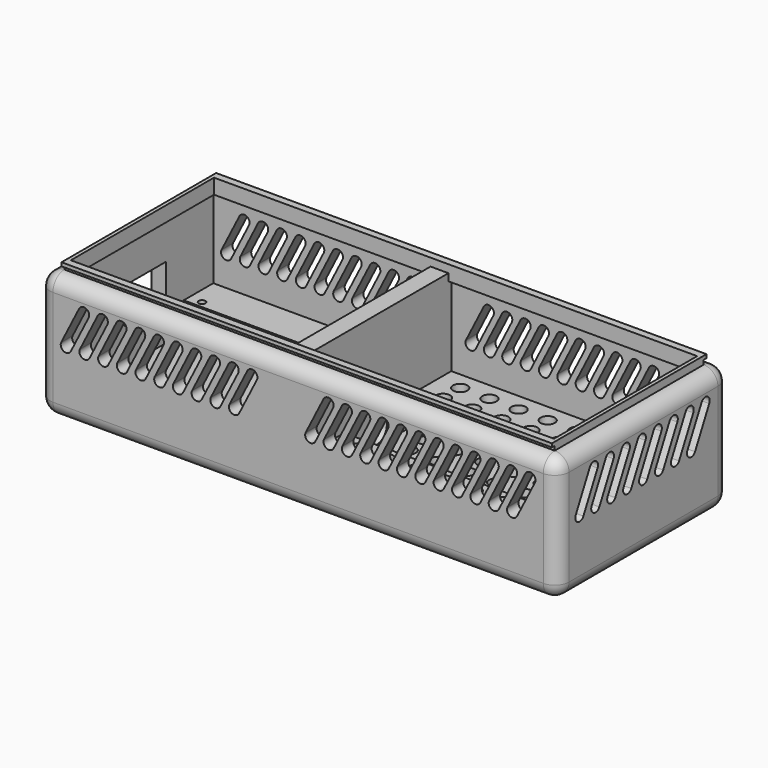
from build123d import *

# Parameters (mm, degrees)
SKETCH_W               = 145
SKETCH_H               = 60
PAD_DEPTH              = 35
FILLET_R               = 4
SKETCH001_W            = 137
SKETCH001_H            = 52
POCKET_DEPTH           = 24.5
SKETCH002_R            = 0.94
SKETCH002_W            = 61.5
SKETCH002_H            = 31.3
SKETCH002_W_2          = 70.5
SKETCH002_H_2          = 22.8
POCKET001_DEPTH        = 8
PAD001_DEPTH           = 24.5
SKETCH004_R            = 3.5
POCKET002_DEPTH        = 5
POCKET003_DEPTH        = 60.001
LINEARPATTERN_COUNT    = 10
LINEARPATTERN_PITCH    = 5.222222
POCKET004_DEPTH        = 60.001
LINEARPATTERN001_COUNT = 12
LINEARPATTERN001_PITCH = 5.127273
POCKET005_DEPTH        = 5
LINEARPATTERN002_COUNT = 8
LINEARPATTERN002_PITCH = 5.571429
SKETCH008_R            = 2
POCKET006_DEPTH        = 35.001
LINEARPATTERN003_COUNT = 8
LINEARPATTERN003_PITCH = 8.142857
SKETCH009_W            = 61.5
SKETCH009_H            = 2
SKETCH009_W_2          = 70.5
PAD002_DEPTH           = 1
SKETCH010_W            = 61.5
SKETCH010_H            = 2
SKETCH010_W_2          = 70.5
PAD003_DEPTH           = 1
SKETCH011_W            = 14.5
SKETCH011_H            = 10
POCKET007_DEPTH        = 5
SKETCH013_W            = 50
SKETCH013_H            = 2
PAD004_DEPTH           = 1
SKETCH014_W            = 50
SKETCH014_H            = 2
PAD005_DEPTH           = 1
SKETCH015_W            = 137
SKETCH015_H            = 52
SKETCH015_W_2          = 135
SKETCH015_H_2          = 50
PAD006_DEPTH           = 2.2
SKETCH016_W            = 137
SKETCH016_H            = 1
PAD007_DEPTH           = 1
SKETCH017_W            = 137
SKETCH017_H            = 1
PAD008_DEPTH           = 1


with BuildPart() as part:
    # Sketch → Pad (new body)
    with BuildSketch(Plane.XY):
        Rectangle(SKETCH_W, SKETCH_H)
    extrude(amount=PAD_DEPTH)

    # Fillet
    fillet_edges = [part.edges().sort_by_distance(p)[0] for p in [
        (-72.5, 30, 17.5),
        (72.5, 30, 17.5),
        (0, 30, 0),
        (0, 30, 35),
        (72.5, -30, 17.5),
        (72.5, 0, 0),
        (72.5, 0, 35),
        (-72.5, -30, 17.5),
        (0, -30, 0),
        (0, -30, 35),
        (-72.5, 0, 0),
        (-72.5, 0, 35),
    ]]
    fillet(fillet_edges, radius=FILLET_R)

    # Sketch001 (on Face11 of Fillet) → Pocket (cut)
    with BuildSketch(Plane.XY.offset(35)):
        Rectangle(SKETCH001_W, SKETCH001_H)
    extrude(amount=-POCKET_DEPTH, mode=Mode.SUBTRACT)

    # Sketch002 (on Face21 of Pocket) → Pocket001 (cut)
    with BuildSketch(Plane.XY.offset(10.5)):
        with Locations((-9.35, 17.5)):
            Circle(SKETCH002_R)
        with Locations((-64.85, 17.5)):
            Circle(SKETCH002_R)
        with Locations((-9.35, -17.5)):
            Circle(SKETCH002_R)
        with Locations((-64.85, -17.5)):
            Circle(SKETCH002_R)
        with Locations((0, 13.25)):
            Circle(SKETCH002_R)
        with Locations((66.2, 13.25)):
            Circle(SKETCH002_R)
        with Locations((66.2, -13.25)):
            Circle(SKETCH002_R)
        with Locations((0, -13.25)):
            Circle(SKETCH002_R)
        with Locations((-37.75, 0)):
            Rectangle(SKETCH002_W, SKETCH002_H)
        with Locations((33.25, 0)):
            Rectangle(SKETCH002_W_2, SKETCH002_H_2)
    extrude(amount=-POCKET001_DEPTH, mode=Mode.SUBTRACT)

    # Sketch003 (on Face21 of Pocket001) → Pad001 (join)
    with BuildSketch(Plane.XY.offset(10.5)):
        Polygon((-7, 15.65), (-7, 26), (-2, 26), (-2, -11.4), (-2, -26), (-7, -26), align=None)
    extrude(amount=PAD001_DEPTH)

    # Sketch004 (on Face46 of Pad001) → Pocket002 (cut)
    with BuildSketch(Plane.YZ.offset(-2)):
        with Locations((0, 6.5)):
            Circle(SKETCH004_R)
    extrude(amount=-POCKET002_DEPTH, mode=Mode.SUBTRACT)

    # Sketch005 (on Face34 of Pocket002) → Pocket003 (cut, through all)
    with BuildSketch(Plane.XZ.offset(30)):
        with BuildLine():
            Line((-61.210036, 29.336224), (-66.163776, 19.514796))
            ThreePointArc((-66.163776, 19.514796), (-65.5, 17.5), (-63.485204, 18.163776))
            Line((-58.531464, 27.985204), (-63.485204, 18.163776))
            ThreePointArc((-58.531464, 27.985204), (-59.19524, 30), (-61.210036, 29.336224))
        make_face()
    pocket003 = extrude(amount=-POCKET003_DEPTH, mode=Mode.SUBTRACT)

    # LinearPattern: Pocket003 ×10
    with Locations(*[(i * LINEARPATTERN_PITCH, 0, 0) for i in range(1, LINEARPATTERN_COUNT)]):
        add(pocket003, mode=Mode.SUBTRACT)

    # Sketch006 (on Face74 of LinearPattern) → Pocket004 (cut, through all)
    with BuildSketch(Plane.XZ.offset(30)):
        with BuildLine():
            Line((63.485204, 29.336224), (58.531464, 19.514796))
            ThreePointArc((58.531464, 19.514796), (59.19524, 17.5), (61.210036, 18.163776))
            Line((66.163776, 27.985204), (61.210036, 18.163776))
            ThreePointArc((66.163776, 27.985204), (65.5, 30), (63.485204, 29.336224))
        make_face()
    pocket004 = extrude(amount=-POCKET004_DEPTH, mode=Mode.SUBTRACT)

    # LinearPattern001: Pocket004 ×12
    with Locations(*[(-i * LINEARPATTERN001_PITCH, 0, 0) for i in range(1, LINEARPATTERN001_COUNT)]):
        add(pocket004, mode=Mode.SUBTRACT)

    # Sketch007 (on Face103 of LinearPattern001) → Pocket005 (cut)
    with BuildSketch(Plane.YZ.offset(72.5)):
        with BuildLine():
            Line((-18.710036, 29.336224), (-23.663776, 19.514796))
            ThreePointArc((-23.663776, 19.514796), (-23, 17.5), (-20.985204, 18.163776))
            Line((-16.031464, 27.985204), (-20.985204, 18.163776))
            ThreePointArc((-16.031464, 27.985204), (-16.69524, 30), (-18.710036, 29.336224))
        make_face()
    pocket005 = extrude(amount=-POCKET005_DEPTH, mode=Mode.SUBTRACT)

    # LinearPattern002: Pocket005 ×8
    with Locations(*[(0, i * LINEARPATTERN002_PITCH, 0) for i in range(1, LINEARPATTERN002_COUNT)]):
        add(pocket005, mode=Mode.SUBTRACT)

    # Sketch008 (on Face97 of LinearPattern002) → Pocket006 (cut, through all)
    with BuildSketch(Plane(origin=(0, 0, 0), x_dir=(1, 0, 0), z_dir=(0, 0, -1))):
        with Locations((61.5, 21)):
            Circle(SKETCH008_R)
        with Locations((61.5, 15)):
            Circle(SKETCH008_R)
        with Locations((61.5, 9)):
            Circle(SKETCH008_R)
        with Locations((61.5, 3)):
            Circle(SKETCH008_R)
        with Locations((61.5, -3)):
            Circle(SKETCH008_R)
        with Locations((61.5, -9)):
            Circle(SKETCH008_R)
        with Locations((61.5, -15)):
            Circle(SKETCH008_R)
        with Locations((61.5, -21)):
            Circle(SKETCH008_R)
    pocket006 = extrude(amount=-POCKET006_DEPTH, mode=Mode.SUBTRACT)

    # LinearPattern003: Pocket006 ×8
    with Locations(*[(-i * LINEARPATTERN003_PITCH, 0, 0) for i in range(1, LINEARPATTERN003_COUNT)]):
        add(pocket006, mode=Mode.SUBTRACT)

    # Sketch009 (on Face228 of LinearPattern003) → Pad002 (join)
    with BuildSketch(Plane(origin=(0, -26, 0), x_dir=(-1, 0, 0), z_dir=(0, 1, 0))):
        with Locations((37.75, 34)):
            Rectangle(SKETCH009_W, SKETCH009_H)
        with Locations((-33.25, 34)):
            Rectangle(SKETCH009_W_2, SKETCH009_H)
    extrude(amount=PAD002_DEPTH)

    # Sketch010 (on Face99 of Pad002) → Pad003 (join)
    with BuildSketch(Plane.XZ.offset(-26)):
        with Locations((-37.75, 34)):
            Rectangle(SKETCH010_W, SKETCH010_H)
        with Locations((33.25, 34)):
            Rectangle(SKETCH010_W_2, SKETCH010_H)
    extrude(amount=PAD003_DEPTH)

    # Sketch011 (on Face96 of Pad003) → Pocket007 (cut)
    with BuildSketch(Plane(origin=(-72.5, 0, 0), x_dir=(0, -1, 0), z_dir=(-1, 0, 0))):
        with Locations((-2.25, 17.5)):
            Rectangle(SKETCH011_W, SKETCH011_H)
    extrude(amount=-POCKET007_DEPTH, mode=Mode.SUBTRACT)

    # Sketch013 (on Face224 of Pocket007) → Pad004 (join)
    with BuildSketch(Plane.YZ.offset(-68.5)):
        with Locations((0, 34)):
            Rectangle(SKETCH013_W, SKETCH013_H)
    extrude(amount=PAD004_DEPTH)

    # Sketch014 (on Face227 of Pad004) → Pad005 (join)
    with BuildSketch(Plane(origin=(68.5, 0, 0), x_dir=(0, -1, 0), z_dir=(-1, 0, 0))):
        with Locations((0, 34)):
            Rectangle(SKETCH014_W, SKETCH014_H)
    extrude(amount=PAD005_DEPTH)

    # Sketch015 (on Face189 of Pad005) → Pad006 (join)
    with BuildSketch(Plane.XY.offset(35)):
        Rectangle(SKETCH015_W, SKETCH015_H)
        Rectangle(SKETCH015_W_2, SKETCH015_H_2, mode=Mode.SUBTRACT)
    extrude(amount=PAD006_DEPTH)

    # Sketch016 (on Face99 of Pad006) → Pad007 (join)
    with BuildSketch(Plane(origin=(0, 26, 0), x_dir=(-1, 0, 0), z_dir=(0, 1, 0))):
        with Locations((0, 36.7)):
            Rectangle(SKETCH016_W, SKETCH016_H)
    extrude(amount=PAD007_DEPTH)

    # Sketch017 (on Face229 of Pad007) → Pad008 (join)
    with BuildSketch(Plane.XZ.offset(26)):
        with Locations((0, 36.7)):
            Rectangle(SKETCH017_W, SKETCH017_H)
    extrude(amount=PAD008_DEPTH)


solid = part.part
